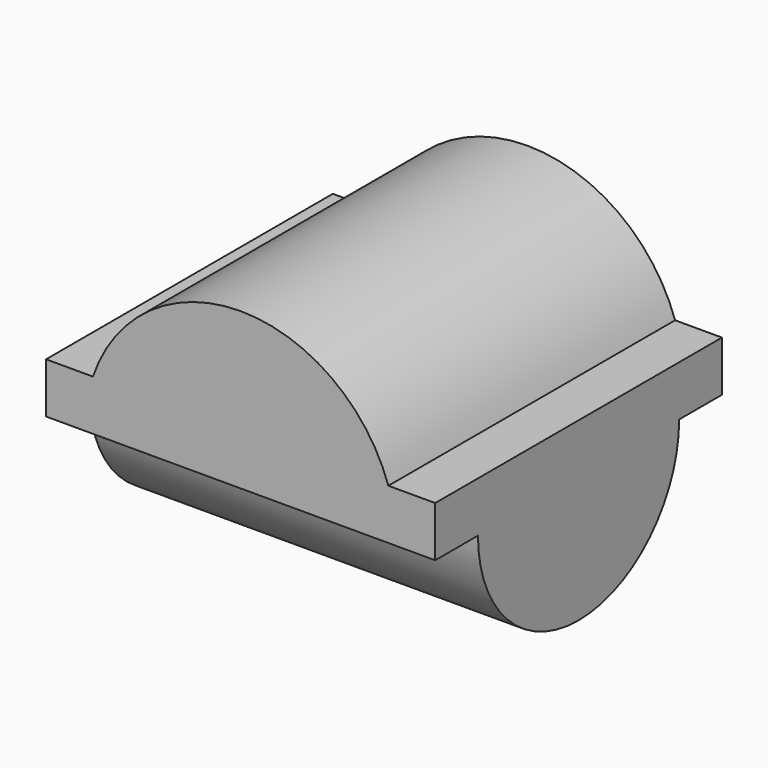
from build123d import *

# Parameters (mm, degrees)
F1_DEPTH = 70
F3_DEPTH = 75.9


with BuildPart() as f1:
    # F0 (on Front) → F1 (new body)
    with BuildSketch(Plane.XZ):
        with BuildLine():
            Line((-41.860654, 25.150694), (-51.006883, 25.150694))
            Line((-51.006883, 25.150694), (-51.006883, 15.308022))
            Line((-51.006883, 15.308022), (24.997707, 15.308022))
            Line((24.997707, 15.308022), (24.997707, 25.150694))
            Line((24.997707, 25.150694), (15.851478, 25.150694))
            ThreePointArc((15.851478, 25.150694), (-13.004588, 45.796557), (-41.860654, 25.150694))
        make_face()
    extrude(amount=F1_DEPTH)

    # F2 (on face) → F3 (join)
    with BuildSketch(Plane.YZ.offset(24.997707)):
        with BuildLine():
            Line((-10.439844, 15.308022), (-59.560156, 15.308022))
            ThreePointArc((-59.560156, 15.308022), (-35, -9.252134), (-10.439844, 15.308022))
        make_face()
    extrude(amount=-F3_DEPTH)


solid = f1.part
